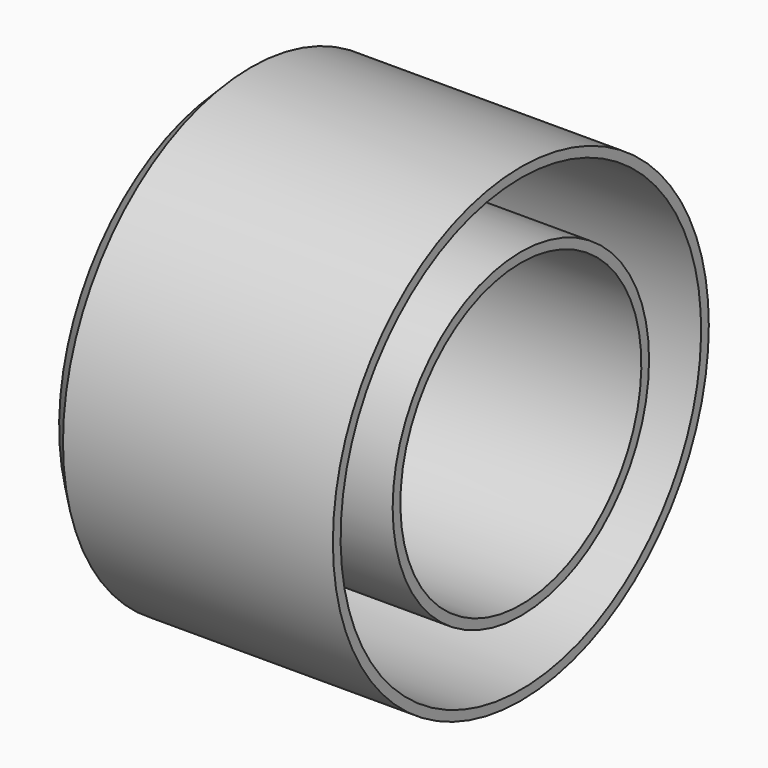
from build123d import *

# Parameters (mm, degrees)
F0_W    = 76.2
F0_H    = 22.225
F2_SIZE = 5.08
F3_T    = -2.54


with BuildPart() as f1:
    # F0 (on Front) → F1 (revolve)
    with BuildSketch(Plane.XZ):
        with Locations((0, 50.8)):
            Rectangle(F0_W, F0_H)
    revolve(axis=Axis((-6.255699, 0, 0), (1, 0, 0)))

    # F2
    f2_edges = [f1.edges().sort_by_distance(p)[0] for p in [
        (-38.1, 0, -61.9125),
    ]]
    chamfer(f2_edges, length=F2_SIZE)

    # F3
    f3_openings = [f1.faces().sort_by_distance(p)[0] for p in [
        (38.1, 0, -41.43865),
    ]]
    offset(amount=F3_T, openings=f3_openings)


solid = f1.part
